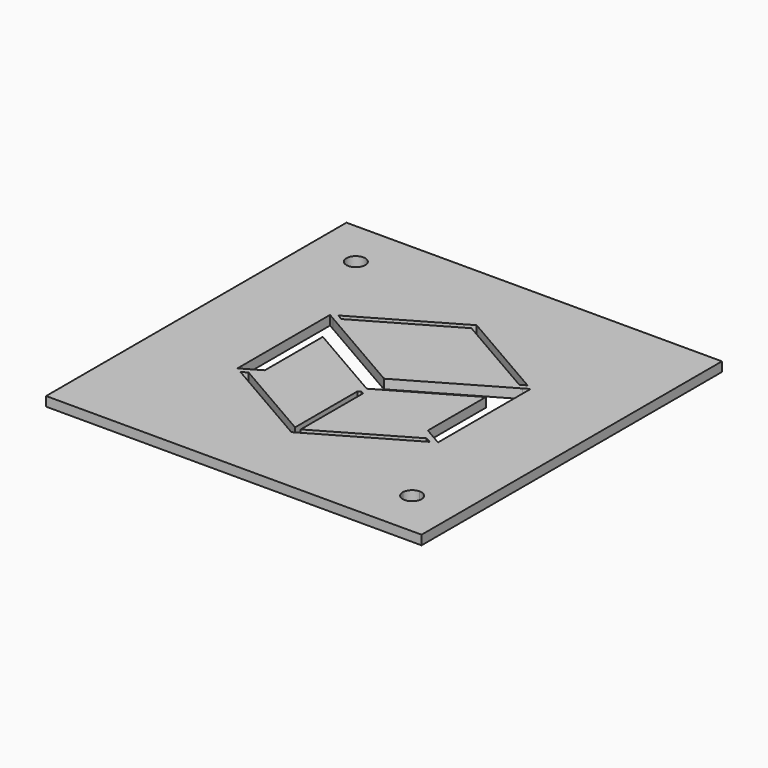
from build123d import *

# Parameters (mm, degrees)
F1_W     = 127
F1_H     = 127
F2_DEPTH = 3.175
F3_DEPTH = 25.4
F5_DEPTH = 25.4


with BuildPart() as f2:
    # F1 (on Top) → F2 (new body)
    with BuildSketch(Plane.XY):
        Rectangle(F1_W, F1_H)
    extrude(amount=F2_DEPTH)

    # F0 (on Top) → F3 (cut)
    with BuildSketch(Plane.XY):
        Polygon((0, -39.167517), (32.015065, -20.683611), (30.110065, -19.583758), (0.9525, -36.417886), (0, -36.967812), (-0.9525, -36.417886), (-30.110065, -19.583758), (-32.015065, -20.683611), align=None)
        Polygon((30.110065, 19.583758), (32.015065, 20.683611), (0, 39.167517), (-32.015065, 20.683611), (-30.110065, 19.583758), (0, 36.967812), align=None)
        Polygon((33.920065, -19.583758), (33.920065, 19.583758), (32.015065, 18.483906), (0, 0), (-32.015065, 18.483906), (-33.920065, 19.583758), (-33.920065, -19.583758), (-32.015065, -18.483906), (-27.570065, -15.917584), (-27.570065, 6.385531), (-27.570065, 8.585236), (0, -7.332348), (27.570065, 8.585236), (27.570065, 6.385531), (27.570065, -15.917584), (32.015065, -18.483906), align=None)
        Polygon((0, -36.967812), (0.9525, -36.417886), (0.9525, -10.081979), (0, -9.532053), align=None)
        Polygon((-0.9525, -36.417886), (0, -36.967812), (0, -9.532053), (-0.9525, -10.081979), align=None)
    extrude(amount=F3_DEPTH, mode=Mode.SUBTRACT)

    # F4 (on face) → F5 (cut)
    with BuildSketch(Plane.XY.offset(3.175)):
        with BuildLine():
            ThreePointArc((-47.625, 44.45), (-45.379936, 45.379936), (-44.45, 47.625))
            Line((-44.45, 47.625), (-47.625, 47.625))
            Line((-47.625, 47.625), (-47.625, 44.45))
        make_face()
        with BuildLine():
            Line((-47.625, 47.625), (-44.45, 47.625))
            ThreePointArc((-44.45, 47.625), (-49.870064, 49.870064), (-47.625, 44.45))
            Line((-47.625, 44.45), (-47.625, 47.625))
        make_face()
        with BuildLine():
            ThreePointArc((50.8, -47.625), (49.870064, -45.379936), (47.625, -44.45))
            Line((47.625, -44.45), (47.625, -47.625))
            Line((47.625, -47.625), (44.45, -47.625))
            ThreePointArc((44.45, -47.625), (47.625, -50.8), (50.8, -47.625))
        make_face()
        with BuildLine():
            Line((47.625, -47.625), (47.625, -44.45))
            ThreePointArc((47.625, -44.45), (45.379936, -45.379936), (44.45, -47.625))
            Line((44.45, -47.625), (47.625, -47.625))
        make_face()
    extrude(amount=-F5_DEPTH, mode=Mode.SUBTRACT)


solid = f2.part
